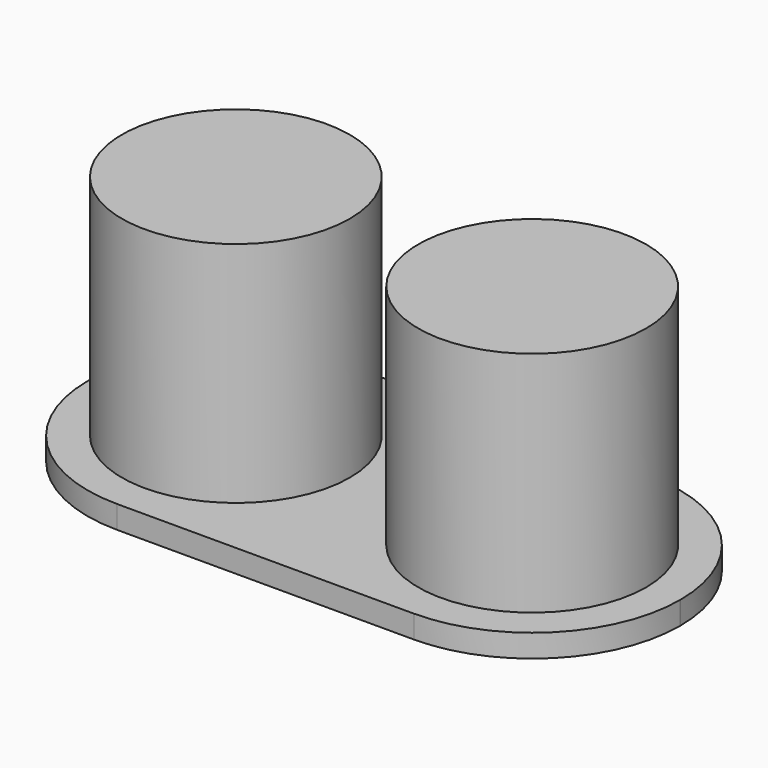
from build123d import *

# Parameters (mm, degrees)
PAD_DEPTH    = 1
SKETCH002_R  = 5
PAD001_DEPTH = 10


with BuildPart() as part:
    # Sketch → Pad (new body)
    with BuildSketch(Plane.XY):
        with BuildLine():
            Line((-26.647359, 7.054149), (-26.647359, 7.041504))
            ThreePointArc((-26.647359, 7.041504), (-24.745405, 2.449781), (-20.153681, 0.547826))
            Line((-20.153681, 0.547826), (-7.141037, 0.547826))
            ThreePointArc((-7.141037, 0.547826), (-2.549313, 2.449781), (-0.647359, 7.041504))
            Line((-0.647359, 7.041504), (-0.647359, 7.054149))
            ThreePointArc((-0.647359, 7.054149), (-2.549313, 11.645872), (-7.141037, 13.547826))
            Line((-7.141037, 13.547826), (-20.153681, 13.547826))
            ThreePointArc((-20.153681, 13.547826), (-24.745405, 11.645872), (-26.647359, 7.054149))
        make_face()
    extrude(amount=PAD_DEPTH)

    # Sketch002 (on Face10 of Pad) → Pad001 (join)
    with BuildSketch(Plane.XY.offset(1)):
        with Locations((-20.153681, 7.054149)):
            Circle(SKETCH002_R)
        with Locations((-7.141037, 7.041504)):
            Circle(SKETCH002_R)
    extrude(amount=PAD001_DEPTH)


solid = part.part
